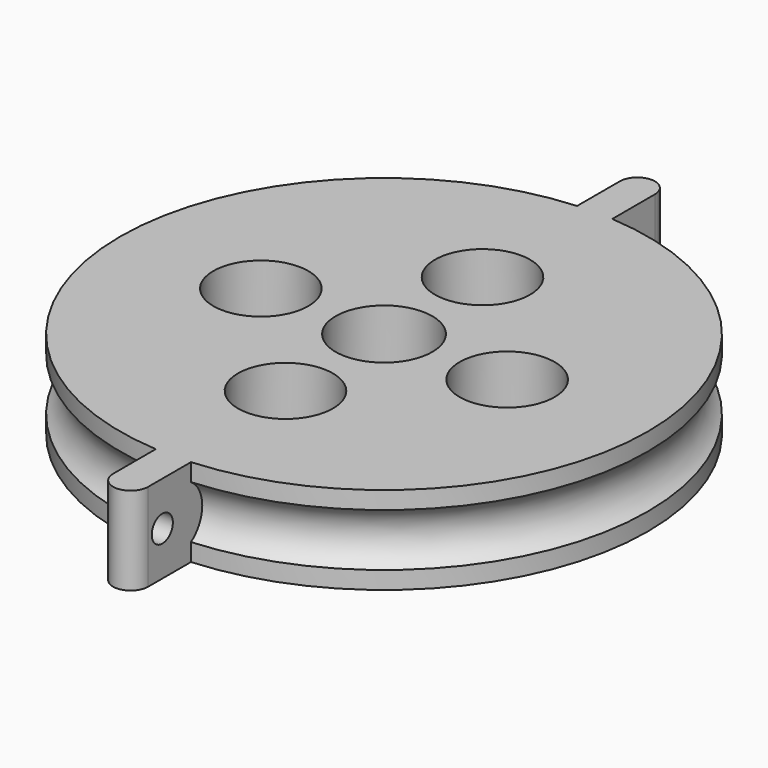
from build123d import *

# Parameters (mm, degrees)
SKETCH050_R             = 15
SKETCH050_R_2           = 2.75
SKETCH050_R_3           = 1.7
PAD021_DEPTH            = 5
SKETCH051_R             = 2.7
POCKET026_DEPTH         = 88.441037
POLARPATTERN004_COUNT   = 4
PAD022_DEPTH            = 5
SKETCH054_R             = 0.75
POCKET027_DEPTH         = 5
POLARPATTERN005_COUNT   = 2
BODY011_PLACEMENT_ANGLE = 270


with BuildPart() as part:
    # Sketch050 → Pad021 (new body)
    with BuildSketch(Plane.XZ):
        Circle(SKETCH050_R)
        Circle(SKETCH050_R_2, mode=Mode.SUBTRACT)
        with Locations((0, 7)):
            Circle(SKETCH050_R_3, mode=Mode.SUBTRACT)
        with Locations((-7, 0)):
            Circle(SKETCH050_R_3, mode=Mode.SUBTRACT)
        with Locations((0, -7)):
            Circle(SKETCH050_R_3, mode=Mode.SUBTRACT)
        with Locations((7, 0)):
            Circle(SKETCH050_R_3, mode=Mode.SUBTRACT)
    extrude(amount=PAD021_DEPTH)

    # Sketch051 → Pocket026 (cut, through all)
    with BuildSketch(Plane.XZ.offset(2)):
        with Locations((0, 7)):
            Circle(SKETCH051_R)
    pocket026 = extrude(amount=POCKET026_DEPTH, mode=Mode.SUBTRACT)

    # PolarPattern004: Pocket026 ×4 about axis
    polarpattern004_axis = Axis((0, -2, 0), (0, -1, 0))
    for i in range(1, POLARPATTERN004_COUNT):
        add(pocket026.rotate(polarpattern004_axis, i * 360 / POLARPATTERN004_COUNT), mode=Mode.SUBTRACT)

    # Sketch052 → Groove003 (revolve, cut)
    with BuildSketch(Plane.YZ):
        with BuildLine():
            ThreePointArc((-4, 15), (-2.5, 14.197224), (-1, 15))
            Line((-4, 15), (-1, 15))
        make_face()
    revolve(axis=Axis((0, 0, 0), (0, 1, 0)), mode=Mode.SUBTRACT)

    # Sketch053 (on Face10 of Groove003) → Pad022 (join)
    with BuildSketch(Plane.XZ.offset(5)):
        with BuildLine():
            ThreePointArc((1, 18), (0, 19), (-1, 18))
            Line((-1, 18), (-1, 10))
            Line((-1, 10), (1, 10))
            Line((1, 10), (1, 18))
        make_face()
    pad022 = extrude(amount=-PAD022_DEPTH)

    # Sketch054 (on Face6 of Pad022) → Pocket027 (cut)
    with BuildSketch(Plane(origin=(1, 0, 0), x_dir=(0, 0, 1), z_dir=(1, 0, 0))):
        with Locations((17, 2.5)):
            Circle(SKETCH054_R)
    pocket027 = extrude(amount=-POCKET027_DEPTH, mode=Mode.SUBTRACT)

    # PolarPattern005: Pad022, Pocket027 ×2 about axis
    polarpattern005_axis = Axis((0, -5, 0), (0, -1, 0))
    for i in range(1, POLARPATTERN005_COUNT):
        add(pad022.rotate(polarpattern005_axis, i * 360 / POLARPATTERN005_COUNT))
        add(pocket027.rotate(polarpattern005_axis, i * 360 / POLARPATTERN005_COUNT), mode=Mode.SUBTRACT)


with BuildPart() as part_1:
    # Body011 placement: moved
    add(part.part.moved(Location((0, 0, 2.8))).rotate(Axis((0, 0, 2.8), (1, 0, 0)), BODY011_PLACEMENT_ANGLE))


solid = part_1.part
